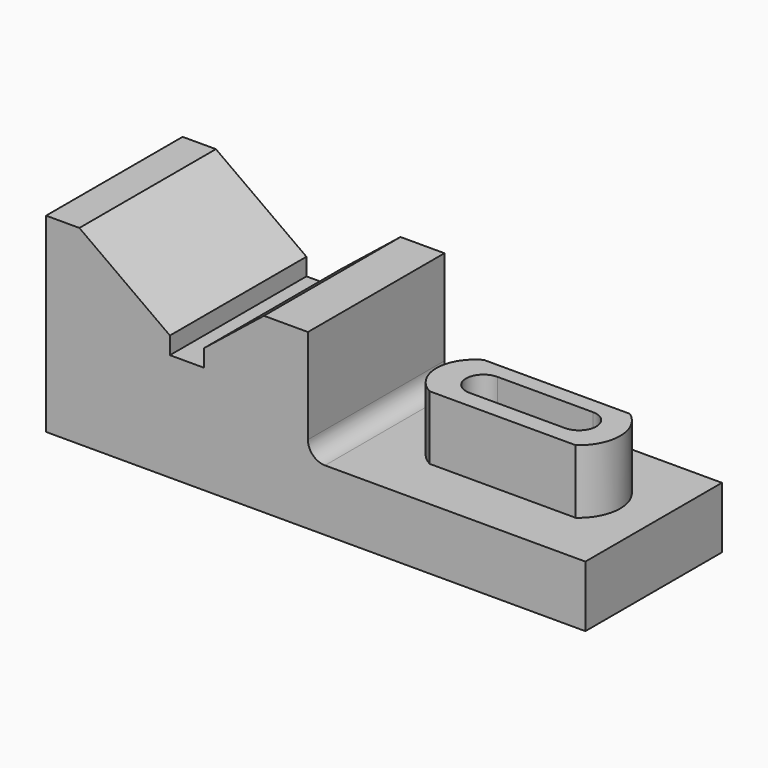
from build123d import *

# Parameters (mm, degrees)
F1_DEPTH = 63.5
F3_DEPTH = 25.4


with BuildPart() as f1:
    # F0 (on Front) → F1 (new body)
    with BuildSketch(Plane.XZ):
        with BuildLine():
            Line((-97.852716, 24.277382), (-97.852716, -46.572937))
            Line((-97.852716, -46.572937), (102.807284, -46.572937))
            Line((102.807284, -46.572937), (102.807284, -23.781926))
            Line((102.807284, -23.781926), (5.920396, -23.781926))
            ThreePointArc((5.920396, -23.781926), (1.430268, -21.922054), (-0.429604, -17.431926))
            Line((-0.429604, -17.431926), (-0.429604, 17.836444))
            Line((-0.429604, 17.836444), (-16.779679, 17.836444))
            Line((-16.779679, 17.836444), (-39.075235, 0))
            Line((-39.075235, 0), (-39.075235, -6.440938))
            Line((-39.075235, -6.440938), (-51.775235, -6.440938))
            Line((-51.775235, -6.440938), (-51.775235, 0))
            Line((-51.775235, 0), (-85.466295, 24.277382))
            Line((-85.466295, 24.277382), (-97.852716, 24.277382))
        make_face()
    extrude(amount=F1_DEPTH)

    # F2 (on Top) → F3 (join)
    with BuildSketch(Plane.XY):
        with BuildLine():
            Line((83.36813, -18.497726), (29.049411, -18.497726))
            ThreePointArc((29.049411, -18.497726), (21.484507, -31.123157), (29.049411, -43.748587))
            Line((29.049411, -43.748587), (83.36813, -43.748587))
            ThreePointArc((83.36813, -43.748587), (89.852645, -31.123157), (83.36813, -18.497726))
        make_face()
        with BuildLine():
            ThreePointArc((38.738701, -37.289064), (32.279179, -30.829541), (38.738701, -24.370018))
            Line((38.738701, -24.370018), (74.266076, -24.370018))
            ThreePointArc((74.266076, -24.370018), (80.725599, -30.829541), (74.266076, -37.289064))
            Line((74.266076, -37.289064), (38.738701, -37.289064))
        make_face(mode=Mode.SUBTRACT)
    extrude(amount=-F3_DEPTH)


solid = f1.part
